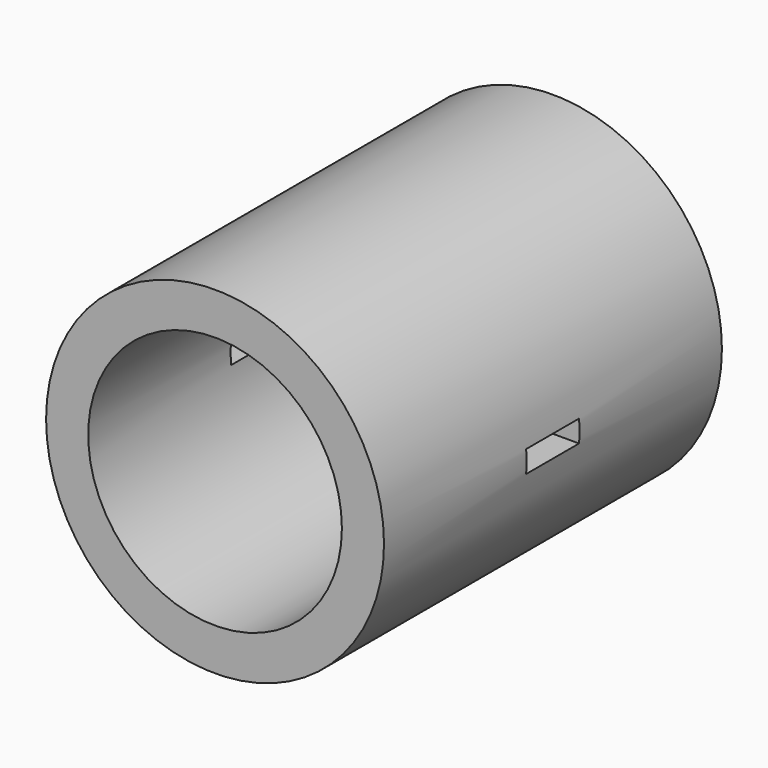
from build123d import *

# Parameters (mm, degrees)
F0_R     = 60
F1_DEPTH = 75
F2_R     = 45.05
F3_DEPTH = 300
F4_W     = 23.5
F4_H     = 7.8
F5_DEPTH = 78.9


with BuildPart() as f1:
    # F0 (on Front) → F1 (new body, symmetric)
    with BuildSketch(Plane.XZ):
        Circle(F0_R)
    extrude(amount=F1_DEPTH, both=True)

    # F2 (on face) → F3 (cut)
    with BuildSketch(Plane.XZ.offset(75)):
        Circle(F2_R)
    extrude(amount=-F3_DEPTH, mode=Mode.SUBTRACT)

    # F4 (on Right) → F5 (cut, symmetric)
    with BuildSketch(Plane.YZ):
        Rectangle(F4_W, F4_H)
    extrude(amount=F5_DEPTH, both=True, mode=Mode.SUBTRACT)


solid = f1.part
